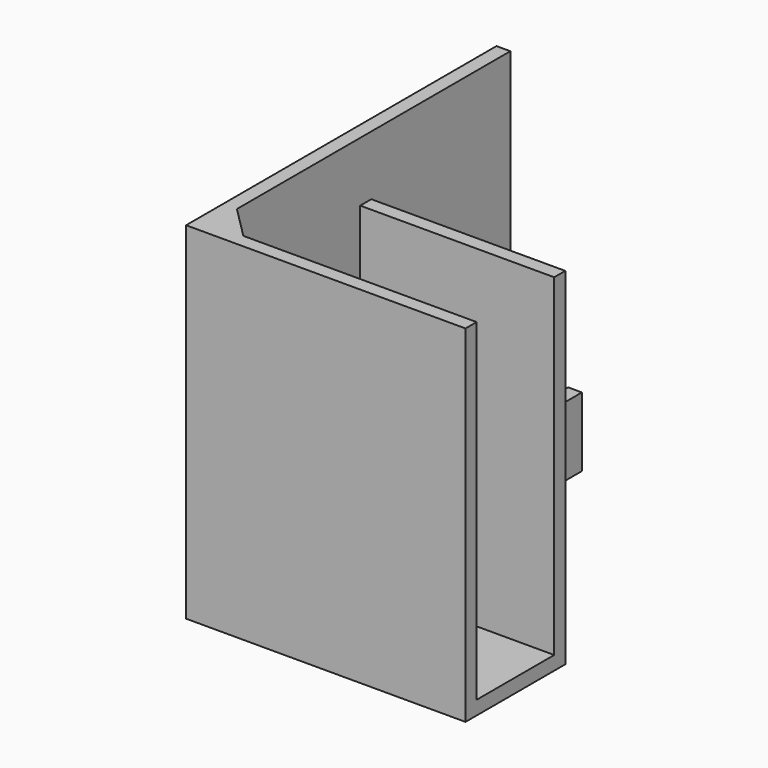
from build123d import *

# Parameters (mm, degrees)
F1_DEPTH = 3
F2_DEPTH = 75
F3_DEPTH = 15
F4_SIZE  = 7
F5_W     = 42
F5_H     = 3
F6_DEPTH = 60
F8_DEPTH = 15


with BuildPart() as f1:
    # F0 (on Top) → F1 (new body)
    with BuildSketch(Plane.XY):
        Polygon((0, 60), (-12.5, 60), (-12.5, -21), (45, -21), (45, 0), (0, 0), align=None)
    extrude(amount=F1_DEPTH)

    # F0 (on Top) → F2 (join)
    with BuildSketch(Plane.XY):
        Polygon((-12.5, -21), (-12.5, 60), (-15.5, 60), (-15.5, -24), (45, -24), (45, -21), align=None)
    extrude(amount=F2_DEPTH)

    # F0 (on Top) → F3 (join)
    with BuildSketch(Plane.XY):
        Polygon((3, 60), (0, 60), (0, 0), (45, 0), (45, 3), (3, 3), align=None)
    extrude(amount=F3_DEPTH)

    # F4
    f4_edges = [f1.edges().sort_by_distance(p)[0] for p in [
        (-12.5, -21, 39),
    ]]
    chamfer(f4_edges, length=F4_SIZE)

    # F5 (on face) → F6 (join, through all)
    with BuildSketch(Plane.XY.offset(15)):
        with Locations((24, 1.5)):
            Rectangle(F5_W, F5_H)
    extrude(amount=F6_DEPTH)

    # F7 (on face) → F8 (join, through all)
    with BuildSketch(Plane(origin=(0, 0, 0), x_dir=(1, 0, 0), z_dir=(0, 0, -1))):
        Polygon((3, -45), (45, -3), (3, -3), align=None)
    extrude(amount=-F8_DEPTH)


solid = f1.part
